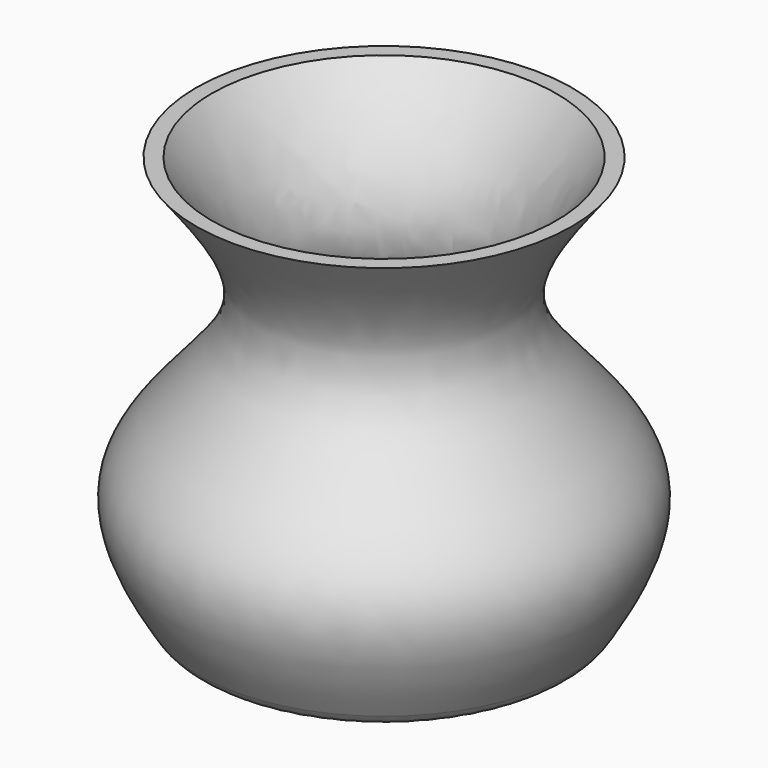
from build123d import *

# Parameters (mm, degrees)
F2_R = 5
F3_T = -2


with BuildPart() as f1:
    # F0 (on Front) → F1 (revolve)
    with BuildSketch(Plane.XZ):
        with BuildLine():
            Line((0, 63.8607814908), (-30.471233651, 63.8607814908))
            add(Edge.make_bspline(
                [(-30.471233651, 63.8607814908), (-24.5682813496, 56.2690781491), (-12.4804400049, 40.7230766155), (-42.8860878606, 20.2133607106), (-33.289922472, 4.7472968268), (-28.6812521517, -2.6804606896)],
                knots=[0, 0, 0, 0, 0.3315714392, 0.6789793897, 1, 1, 1, 1], degree=3))
            Line((-28.6812521517, -2.6804606896), (0, -2.6804606896))
            Line((0, -2.6804606896), (0, 63.8607814908))
        make_face()
    revolve(axis=Axis((0, 0, 30.5901604006), (0, 0, 1)))

    # F2
    f2_edges = [f1.edges().sort_by_distance(p)[0] for p in [
        (28.681252, 0, -2.680461),
    ]]
    fillet(f2_edges, radius=F2_R)

    # F3
    f3_openings = [f1.faces().sort_by_distance(p)[0] for p in [
        (0, 0, 63.860781),
    ]]
    offset(amount=F3_T, openings=f3_openings)


solid = f1.part
